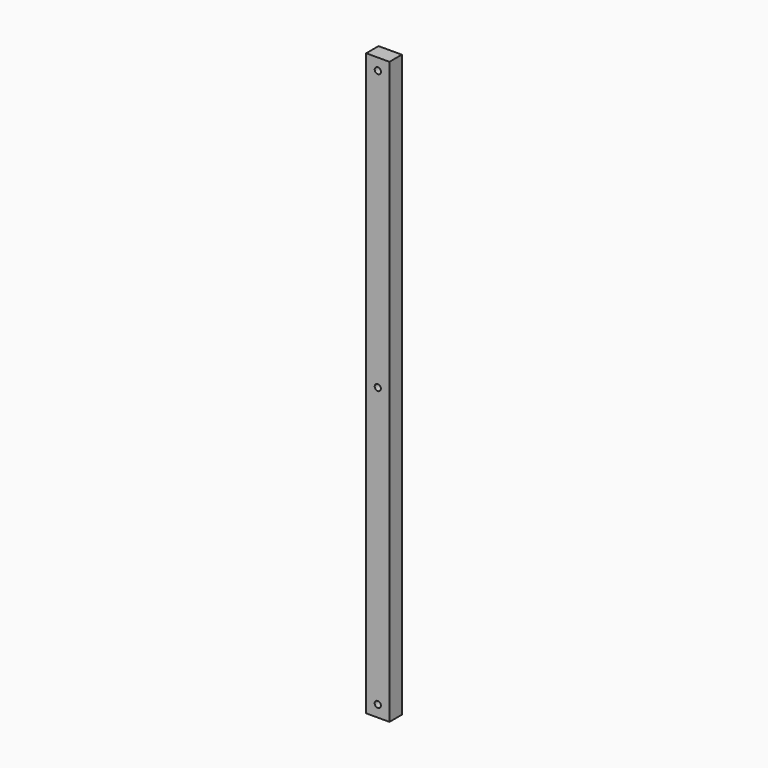
from build123d import *

# Parameters (mm, degrees)
F0_W     = 30
F0_H     = 750
F1_DEPTH = 20
F3_D     = 8
F5_D     = 8


with BuildPart() as f1:
    # F0 (on Front) → F1 (new body)
    with BuildSketch(Plane.XZ):
        Rectangle(F0_W, F0_H)
    extrude(amount=F1_DEPTH)

    # F3 (through all)
    with Locations(Plane.XZ.offset(20)):
        with Locations((0, 360), (0, -360)):
            Hole(F3_D / 2)

    # F5 (through all)
    with Locations(Plane.XZ.offset(20)):
        with Locations((0, 0)):
            Hole(F5_D / 2)


solid = f1.part
